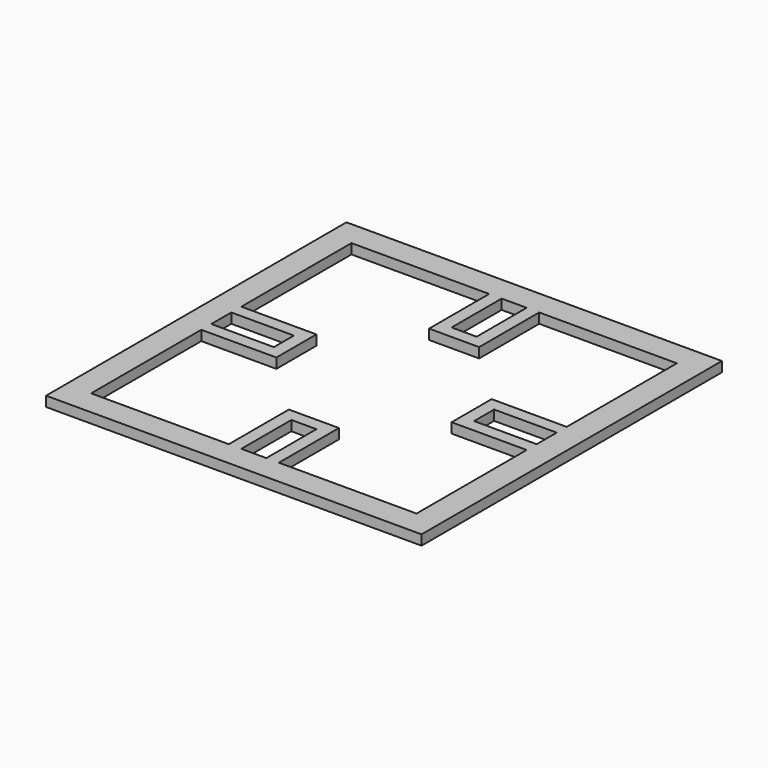
from build123d import *

# Parameters (mm, degrees)
F0_W     = 150
F0_H     = 150
F0_W_2   = 130
F0_H_2   = 130
F1_DEPTH = 4
F3_DEPTH = 4


with BuildPart() as f1:
    # F0 (on Top) → F1 (new body)
    with BuildSketch(Plane.XY):
        Rectangle(F0_W, F0_H)
        Rectangle(F0_W_2, F0_H_2, mode=Mode.SUBTRACT)
    extrude(amount=F1_DEPTH)

    # F2 (on Top) → F3 (join, through all)
    with BuildSketch(Plane.XY):
        Polygon((-35, 10), (-65, 10), (-65, 5), (-40, 5), (-40, -5), (-65, -5), (-65, -10), (-35, -10), align=None)
        Polygon((-5, 65), (-10, 65), (-10, 35), (10, 35), (10, 65), (5, 65), (5, 40), (-5, 40), align=None)
        Polygon((65, 5), (65, 10), (35, 10), (35, -10), (65, -10), (65, -5), (40, -5), (40, 5), align=None)
        Polygon((5, -65), (10, -65), (10, -35), (-10, -35), (-10, -65), (-5, -65), (-5, -40), (5, -40), align=None)
    extrude(amount=F3_DEPTH)


solid = f1.part
